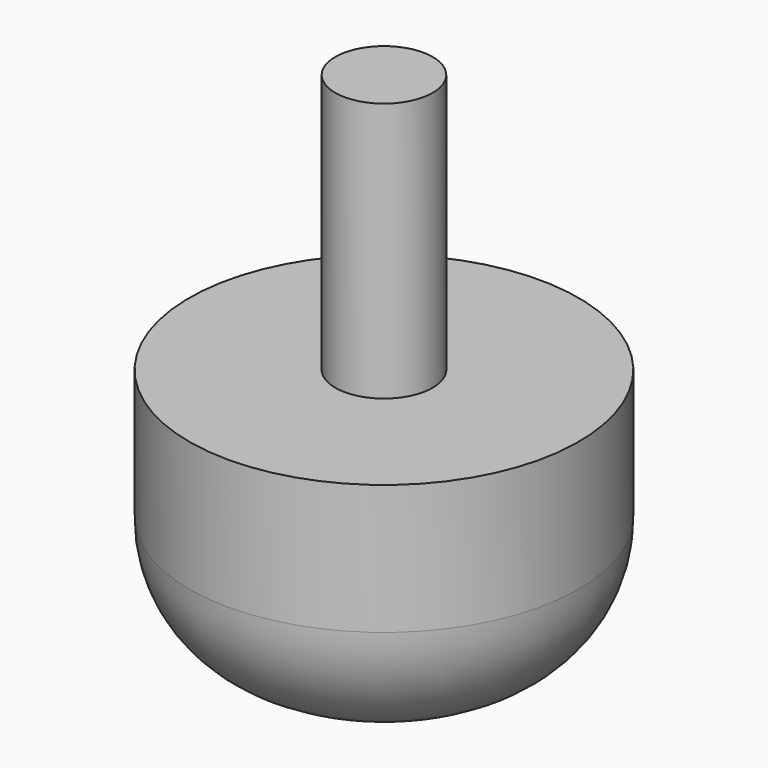
from build123d import *

# Parameters (mm, degrees)
F0_R     = 1.905
F0_R_2   = 0.47625
F1_DEPTH = 2.54
F2_DEPTH = 5.08
F4_R     = 1.27
F3_R     = 2.58953
F5_DEPTH = 1.906
F6_DEPTH = 25.4
F7_ANGLE = 90


with BuildPart() as f1:
    # F0 (on Top) → F1 (new body)
    with BuildSketch(Plane.XY):
        Circle(F0_R)
        Circle(F0_R_2, mode=Mode.SUBTRACT)
    extrude(amount=F1_DEPTH)

    # F0 (on Top) → F2 (join)
    with BuildSketch(Plane.XY):
        Circle(F0_R_2)
    extrude(amount=F2_DEPTH)

    # F4
    f4_edges = [f1.edges().sort_by_distance(p)[0] for p in [
        (-1.905, 0, 0),
    ]]
    fillet(f4_edges, radius=F4_R)

    # F3 (on Front) → F5 (cut, through all)
    with BuildSketch(Plane.XZ):
        with Locations((8.706267, 1.083521)):
            Circle(F3_R)
    extrude(amount=-F5_DEPTH, mode=Mode.SUBTRACT)

    # F3 (on Front) → F6 (cut)
    with BuildSketch(Plane.XZ):
        with Locations((8.706267, 1.083521)):
            Circle(F3_R)
    extrude(amount=F6_DEPTH, mode=Mode.SUBTRACT)


with BuildPart() as f1_1:
    # F7: moved
    add(f1.part.rotate(Axis((0, 0, 0), (0, 0, -1)), F7_ANGLE))


solid = f1_1.part
